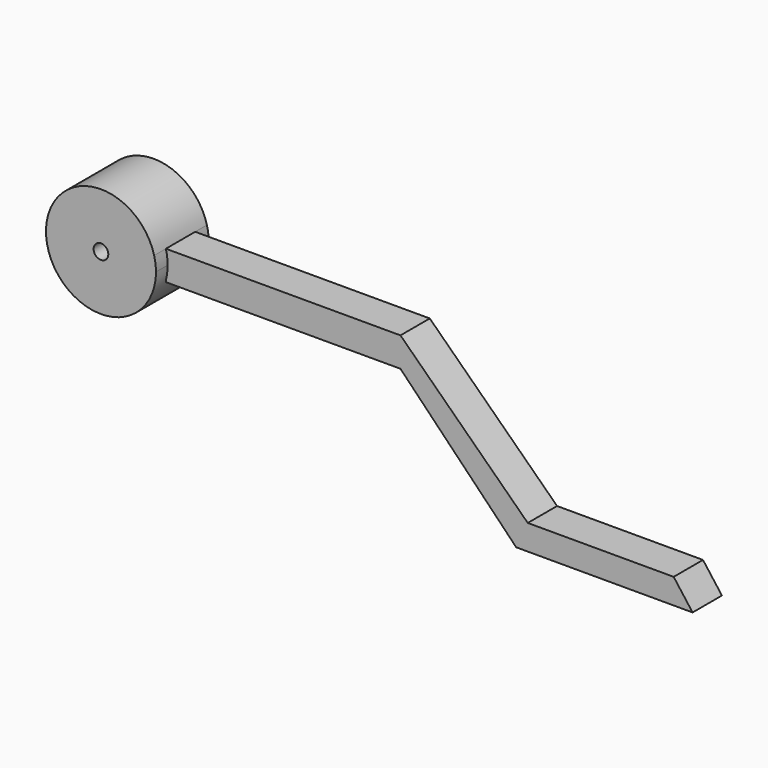
from build123d import *

# Parameters (mm, degrees)
F1_DEPTH = 5.715
F2_DEPTH = 3.175
F3_R     = 1.27
F4_DEPTH = 25.4


with BuildPart() as f1:
    # F0 (on Front) → F1 (new body, symmetric)
    with BuildSketch(Plane.XZ):
        with BuildLine():
            ThreePointArc((9.215210569, -2.4094644982), (9.4472351953, -1.2146489884), (9.525, 0))
            ThreePointArc((9.525, 0), (9.4472351953, 1.2146489884), (9.215210569, 2.4094644982))
            Line((9.215210569, 2.4094644982), (9.215210569, -2.4094644982))
        make_face()
        with BuildLine():
            Line((9.215210569, -2.4094644982), (9.215210569, 2.4094644982))
            ThreePointArc((9.215210569, 2.4094644982), (-9.525, 0), (9.215210569, -2.4094644982))
        make_face()
    extrude(amount=F1_DEPTH, both=True)

    # F0 (on Front) → F2 (join, symmetric)
    with BuildSketch(Plane.XZ):
        with BuildLine():
            ThreePointArc((9.215210569, 2.4094644982), (9.4472351953, 1.2146489884), (9.525, 0))
            ThreePointArc((9.525, 0), (9.4472351953, -1.2146489884), (9.215210569, -2.4094644982))
            Line((9.215210569, -2.4094644982), (9.215210569, -2.6859357022))
            Line((9.215210569, -2.6859357022), (49.855210569, -2.6859357022))
            Line((49.855210569, -2.6859357022), (49.855210569, 2.4094644982))
            Line((49.855210569, 2.4094644982), (9.215210569, 2.4094644982))
        make_face()
        Polygon((71.9085857272, -19.0247967839), (49.855210569, 2.4094644982), (49.855210569, -2.6859357022), (69.9069363303, -23.3931405965), (100.4668754262, -23.3931405965), (97.190618515, -19.0247967839), align=None)
    extrude(amount=F2_DEPTH, both=True)

    # F3 (on face) → F4 (cut)
    with BuildSketch(Plane.XZ.offset(5.715)):
        Circle(F3_R)
    extrude(amount=-F4_DEPTH, mode=Mode.SUBTRACT)


solid = f1.part
